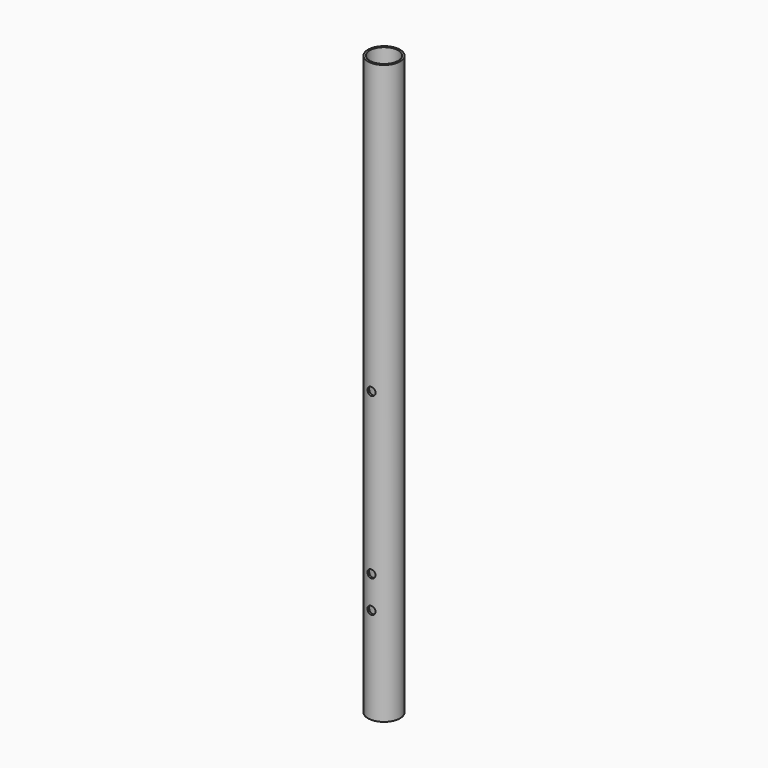
from build123d import *

# Parameters (mm, degrees)
F0_R     = 12.7
F0_R_2   = 11.2
F1_DEPTH = 457.2
F2_R     = 3.175
F3_DEPTH = 12.7


with BuildPart() as f1:
    # F0 (on Top) → F1 (new body)
    with BuildSketch(Plane.XY):
        Circle(F0_R)
        Circle(F0_R_2, mode=Mode.SUBTRACT)
    extrude(amount=F1_DEPTH)

    # F2 (on Front) → F3 (cut, symmetric)
    with BuildSketch(Plane.XZ):
        with Locations((0, 76.2)):
            Circle(F2_R)
        with Locations((0, 228.6)):
            Circle(F2_R)
        with Locations((0, 101.6)):
            Circle(F2_R)
    extrude(amount=F3_DEPTH, both=True, mode=Mode.SUBTRACT)


solid = f1.part
